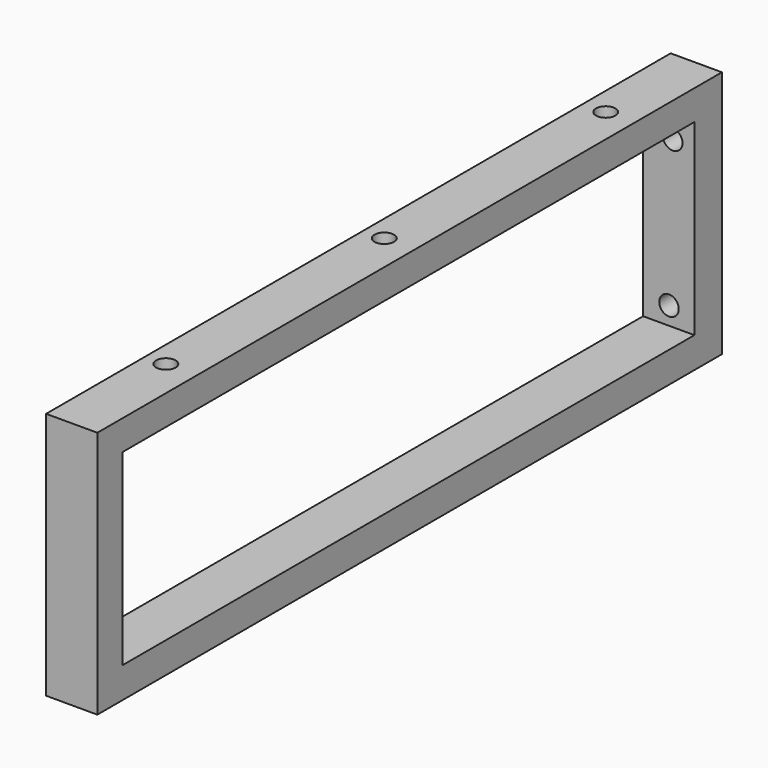
from build123d import *

# Parameters (mm, degrees)
F0_W     = 13.1360664964
F0_H     = 63.5863877833
F1_DEPTH = 200
F3_D     = 5
F3_DEPTH = 12
F3_TIP   = 1.5021515476
F5_D     = 5
F5_DEPTH = 12
F5_TIP   = 1.5021515476
F6_W     = 183.091968298
F6_H     = 48.0650532991
F7_DEPTH = 25


with BuildPart() as f1:
    # F0 (on Front) → F1 (new body)
    with BuildSketch(Plane.XZ):
        with Locations((-61.7326833308, -6.2711592764)):
            Rectangle(F0_W, F0_H)
    extrude(amount=F1_DEPTH)

    # F3
    with Locations(Plane.XY.offset(25.5220346153)):
        with Locations((-63.0798041821, -168.1778728962), (-62.9759728909, -98.3595103025), (-62.5574141741, -27.9654413462)):
            Hole(F3_D / 2, depth=F3_DEPTH)
            with Locations((0, 0, -(F3_DEPTH + F3_TIP / 2))):  # 118° drill point
                Cone(0, F3_D / 2, F3_TIP, mode=Mode.SUBTRACT)

    # F5
    with Locations(Plane(origin=(0, 0, 0), x_dir=(1, 0, 0), z_dir=(0, 1, 0))):
        with Locations((-60.7005506754, -12.1290553361), (-61.6644993424, 25.6001017988)):
            Hole(F5_D / 2, depth=F5_DEPTH)
            with Locations((0, 0, -(F5_DEPTH + F5_TIP / 2))):  # 118° drill point
                Cone(0, F5_D / 2, F5_TIP, mode=Mode.SUBTRACT)

    # F6 (on face) → F7 (cut)
    with BuildSketch(Plane.YZ.offset(-55.1646500826)):
        with Locations((-100.3695875406, -6.1469888315)):
            Rectangle(F6_W, F6_H)
    extrude(amount=-F7_DEPTH, mode=Mode.SUBTRACT)


solid = f1.part
